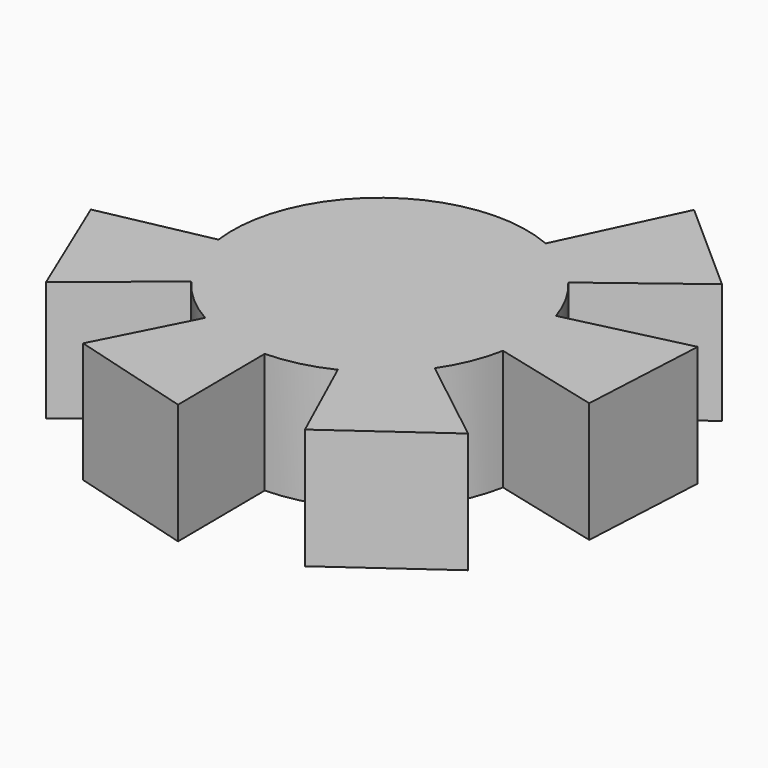
from build123d import *

# Parameters (mm, degrees)
F1_DEPTH = 25.4


with BuildPart() as f1:
    # F0 (on Top) → F1 (new body)
    with BuildSketch(Plane.XY):
        with BuildLine():
            ThreePointArc((29.598609, 7.333415), (27.189668, 12.904555), (23.743974, 17.901333))
            ThreePointArc((23.743974, 17.901333), (18.4404, 22.863979), (12.12993, 26.460327))
            ThreePointArc((12.12993, 26.460327), (-0.552402, 28.919903), (-13.139316, 26.011181))
            ThreePointArc((-13.139316, 26.011181), (-23.690129, 17.964895), (-29.92398, 6.251592))
            ThreePointArc((-29.92398, 6.251592), (-31.002085, 0.087719), (-30.823785, -6.167186))
            ThreePointArc((-30.823785, -6.167186), (-28.826395, -13.786695), (-24.977811, -20.659459))
            ThreePointArc((-24.977811, -20.659459), (-20.502768, -25.521151), (-15.101192, -29.327071))
            ThreePointArc((-15.101192, -29.327071), (-7.516447, -32.319411), (0.585505, -33.236383))
            ThreePointArc((0.585505, -33.236383), (7.228176, -32.389792), (13.535374, -30.140119))
            ThreePointArc((13.535374, -30.140119), (20.27418, -25.719795), (25.650061, -19.715574))
            ThreePointArc((25.650061, -19.715574), (28.724195, -14.036908), (30.55867, -7.845603))
            ThreePointArc((30.55867, -7.845603), (30.951906, -5.014149), (31.083355, -2.158543))
            ThreePointArc((31.083355, -2.158543), (30.709925, 2.645147), (29.598609, 7.333415))
        make_face()
        with BuildLine():
            ThreePointArc((12.12993, 26.460327), (18.4404, 22.863979), (23.743974, 17.901333))
            Line((23.743974, 17.901333), (43.890379, 33.241566))
            Line((43.890379, 33.241566), (23.743974, 51.085521))
            Line((23.743974, 51.085521), (12.12993, 26.460327))
        make_face()
        with BuildLine():
            Line((54.744394, 13.287515), (29.598609, 7.333415))
            ThreePointArc((29.598609, 7.333415), (30.709925, 2.645147), (31.083355, -2.158543))
            ThreePointArc((31.083355, -2.158543), (30.951906, -5.014149), (30.55867, -7.845603))
            Line((30.55867, -7.845603), (53.354507, -13.589103))
            Line((53.354507, -13.589103), (54.744394, 13.287515))
        make_face()
        with BuildLine():
            ThreePointArc((-24.977811, -20.659459), (-28.826395, -13.786695), (-30.823785, -6.167186))
            Line((-30.823785, -6.167186), (-53.96684, -10.906294))
            Line((-53.96684, -10.906294), (-43.557758, -35.724339))
            Line((-43.557758, -35.724339), (-24.977811, -20.659459))
        make_face()
        with BuildLine():
            Line((44.521169, -34.516261), (25.650061, -19.715574))
            ThreePointArc((25.650061, -19.715574), (20.27418, -25.719795), (13.535374, -30.140119))
            Line((13.535374, -30.140119), (22.641603, -50.1869))
            Line((22.641603, -50.1869), (44.521169, -34.516261))
        make_face()
        with BuildLine():
            ThreePointArc((0.585505, -33.236383), (-7.516447, -32.319411), (-15.101192, -29.327071))
            Line((-15.101192, -29.327071), (-25.12089, -48.992938))
            Line((-25.12089, -48.992938), (0.772595, -56.328588))
            Line((0.772595, -56.328588), (0.585505, -33.236383))
        make_face()
    extrude(amount=F1_DEPTH)


solid = f1.part
